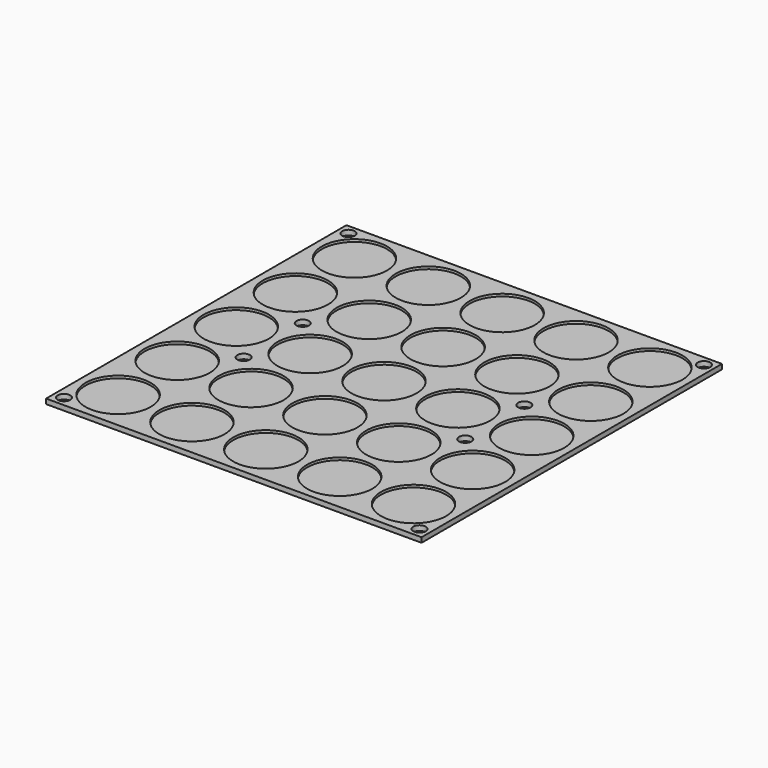
from build123d import *

# Parameters (mm, degrees)
F0_W     = 152.5
F0_H     = 152.5
F0_R     = 13.25
F1_DEPTH = 1
F2_DEPTH = 2
F3_R     = 2.55
F4_DEPTH = 2.001


with BuildPart() as f1:
    # F0 (on Top) → F1 (new body)
    with BuildSketch(Plane.XY):
        Rectangle(F0_W, F0_H)
        with Locations((-60, -60)):
            Circle(F0_R, mode=Mode.SUBTRACT)
        with Locations((-30, -60)):
            Circle(F0_R, mode=Mode.SUBTRACT)
        with Locations((-60, -30)):
            Circle(F0_R, mode=Mode.SUBTRACT)
        with Locations((-30, -30)):
            Circle(F0_R, mode=Mode.SUBTRACT)
        with Locations((0, -60)):
            Circle(F0_R, mode=Mode.SUBTRACT)
        with Locations((30, -60)):
            Circle(F0_R, mode=Mode.SUBTRACT)
        with Locations((60, -60)):
            Circle(F0_R, mode=Mode.SUBTRACT)
        with Locations((0, -30)):
            Circle(F0_R, mode=Mode.SUBTRACT)
        with Locations((30, -30)):
            Circle(F0_R, mode=Mode.SUBTRACT)
        with Locations((60, -30)):
            Circle(F0_R, mode=Mode.SUBTRACT)
        with Locations((-60, 0)):
            Circle(F0_R, mode=Mode.SUBTRACT)
        with Locations((-60, 30)):
            Circle(F0_R, mode=Mode.SUBTRACT)
        with Locations((-30, 0)):
            Circle(F0_R, mode=Mode.SUBTRACT)
        with Locations((-30, 30)):
            Circle(F0_R, mode=Mode.SUBTRACT)
        with Locations((-60, 60)):
            Circle(F0_R, mode=Mode.SUBTRACT)
        with Locations((-30, 60)):
            Circle(F0_R, mode=Mode.SUBTRACT)
        Circle(F0_R, mode=Mode.SUBTRACT)
        with Locations((30, 0)):
            Circle(F0_R, mode=Mode.SUBTRACT)
        with Locations((0, 30)):
            Circle(F0_R, mode=Mode.SUBTRACT)
        with Locations((30, 30)):
            Circle(F0_R, mode=Mode.SUBTRACT)
        with Locations((60, 0)):
            Circle(F0_R, mode=Mode.SUBTRACT)
        with Locations((60, 30)):
            Circle(F0_R, mode=Mode.SUBTRACT)
        with Locations((0, 60)):
            Circle(F0_R, mode=Mode.SUBTRACT)
        with Locations((30, 60)):
            Circle(F0_R, mode=Mode.SUBTRACT)
        with Locations((60, 60)):
            Circle(F0_R, mode=Mode.SUBTRACT)
        with Locations((-60, 60)):
            Circle(F0_R)
        with Locations((-30, 60)):
            Circle(F0_R)
        with Locations((0, 60)):
            Circle(F0_R)
        with Locations((30, 60)):
            Circle(F0_R)
        with Locations((60, 60)):
            Circle(F0_R)
        with Locations((60, 30)):
            Circle(F0_R)
        with Locations((30, 30)):
            Circle(F0_R)
        with Locations((-30, 30)):
            Circle(F0_R)
        with Locations((-60, 30)):
            Circle(F0_R)
        with Locations((0, 30)):
            Circle(F0_R)
        Circle(F0_R)
        with Locations((-30, 0)):
            Circle(F0_R)
        with Locations((-60, 0)):
            Circle(F0_R)
        with Locations((30, 0)):
            Circle(F0_R)
        with Locations((60, 0)):
            Circle(F0_R)
        with Locations((30, -30)):
            Circle(F0_R)
        with Locations((60, -30)):
            Circle(F0_R)
        with Locations((60, -60)):
            Circle(F0_R)
        with Locations((30, -60)):
            Circle(F0_R)
        with Locations((0, -60)):
            Circle(F0_R)
        with Locations((0, -30)):
            Circle(F0_R)
        with Locations((-30, -60)):
            Circle(F0_R)
        with Locations((-30, -30)):
            Circle(F0_R)
        with Locations((-60, -30)):
            Circle(F0_R)
        with Locations((-60, -60)):
            Circle(F0_R)
    extrude(amount=F1_DEPTH)

    # F0 (on Top) → F2 (join)
    with BuildSketch(Plane.XY):
        Rectangle(F0_W, F0_H)
        with Locations((-60, -60)):
            Circle(F0_R, mode=Mode.SUBTRACT)
        with Locations((-30, -60)):
            Circle(F0_R, mode=Mode.SUBTRACT)
        with Locations((-60, -30)):
            Circle(F0_R, mode=Mode.SUBTRACT)
        with Locations((-30, -30)):
            Circle(F0_R, mode=Mode.SUBTRACT)
        with Locations((0, -60)):
            Circle(F0_R, mode=Mode.SUBTRACT)
        with Locations((30, -60)):
            Circle(F0_R, mode=Mode.SUBTRACT)
        with Locations((60, -60)):
            Circle(F0_R, mode=Mode.SUBTRACT)
        with Locations((0, -30)):
            Circle(F0_R, mode=Mode.SUBTRACT)
        with Locations((30, -30)):
            Circle(F0_R, mode=Mode.SUBTRACT)
        with Locations((60, -30)):
            Circle(F0_R, mode=Mode.SUBTRACT)
        with Locations((-60, 0)):
            Circle(F0_R, mode=Mode.SUBTRACT)
        with Locations((-60, 30)):
            Circle(F0_R, mode=Mode.SUBTRACT)
        with Locations((-30, 0)):
            Circle(F0_R, mode=Mode.SUBTRACT)
        with Locations((-30, 30)):
            Circle(F0_R, mode=Mode.SUBTRACT)
        with Locations((-60, 60)):
            Circle(F0_R, mode=Mode.SUBTRACT)
        with Locations((-30, 60)):
            Circle(F0_R, mode=Mode.SUBTRACT)
        Circle(F0_R, mode=Mode.SUBTRACT)
        with Locations((30, 0)):
            Circle(F0_R, mode=Mode.SUBTRACT)
        with Locations((0, 30)):
            Circle(F0_R, mode=Mode.SUBTRACT)
        with Locations((30, 30)):
            Circle(F0_R, mode=Mode.SUBTRACT)
        with Locations((60, 0)):
            Circle(F0_R, mode=Mode.SUBTRACT)
        with Locations((60, 30)):
            Circle(F0_R, mode=Mode.SUBTRACT)
        with Locations((0, 60)):
            Circle(F0_R, mode=Mode.SUBTRACT)
        with Locations((30, 60)):
            Circle(F0_R, mode=Mode.SUBTRACT)
        with Locations((60, 60)):
            Circle(F0_R, mode=Mode.SUBTRACT)
    extrude(amount=F2_DEPTH)

    # F3 (on face) → F4 (cut, through all)
    with BuildSketch(Plane.XY.offset(2)):
        with Locations((-72.2, 72.2)):
            Circle(F3_R)
        with Locations((72.2, 72.2)):
            Circle(F3_R)
        with Locations((45, 15)):
            Circle(F3_R)
        with Locations((-45, 15)):
            Circle(F3_R)
        with Locations((45, -15)):
            Circle(F3_R)
        with Locations((-45, -15)):
            Circle(F3_R)
        with Locations((-72.2, -72.2)):
            Circle(F3_R)
        with Locations((72.2, -72.2)):
            Circle(F3_R)
    extrude(amount=-F4_DEPTH, mode=Mode.SUBTRACT)


solid = f1.part
